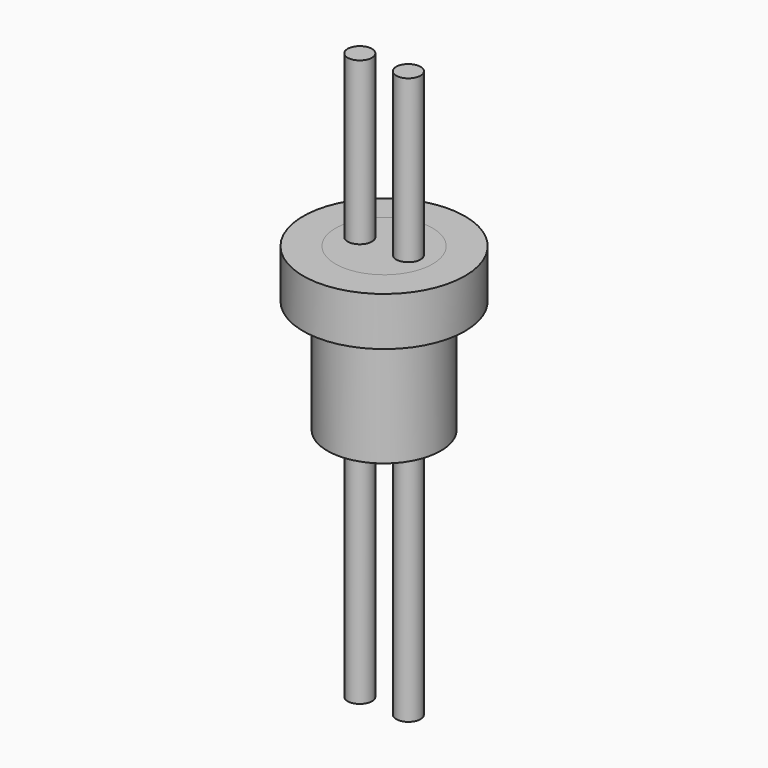
from build123d import *

# Parameters (mm, degrees)
F0_R          = 3.5
F1_DEPTH      = 10
F2_R          = 5
F3_DEPTH      = 3
F4_R          = 3
F5_DEPTH      = 25
F6_DEPTH      = 10
F7_R          = 0.75
F8_DEPTH      = 10
F8_DEPTH_BACK = 25


with BuildPart() as f1:
    # F0 (on Top) → F1 (new body)
    with BuildSketch(Plane.XY):
        Circle(F0_R)
    extrude(amount=F1_DEPTH)

    # F2 (on face) → F3 (join)
    with BuildSketch(Plane.XY.offset(10)):
        Circle(F2_R)
    extrude(amount=-F3_DEPTH)

    # F4 (on face) → F5 (cut)
    with BuildSketch(Plane.XY.offset(10)):
        Circle(F4_R)
    extrude(amount=-F5_DEPTH, mode=Mode.SUBTRACT)


with BuildPart() as f6:
    # F4 (on face) → F6 (new body)
    with BuildSketch(Plane.XY.offset(10)):
        Circle(F4_R)
    extrude(amount=-F6_DEPTH)


with BuildPart() as f8:
    # F7 (on face) → F8 (new body, two sides)
    with BuildSketch(Plane.XY.offset(10)) as f8_sk:
        with Locations((-1.5, 0)):
            Circle(F7_R)
        with Locations((1.5, 0)):
            Circle(F7_R)
    extrude(amount=F8_DEPTH)
    extrude(f8_sk.sketch, amount=-F8_DEPTH_BACK)


solid = Compound([f1.part, f6.part, f8.part])
